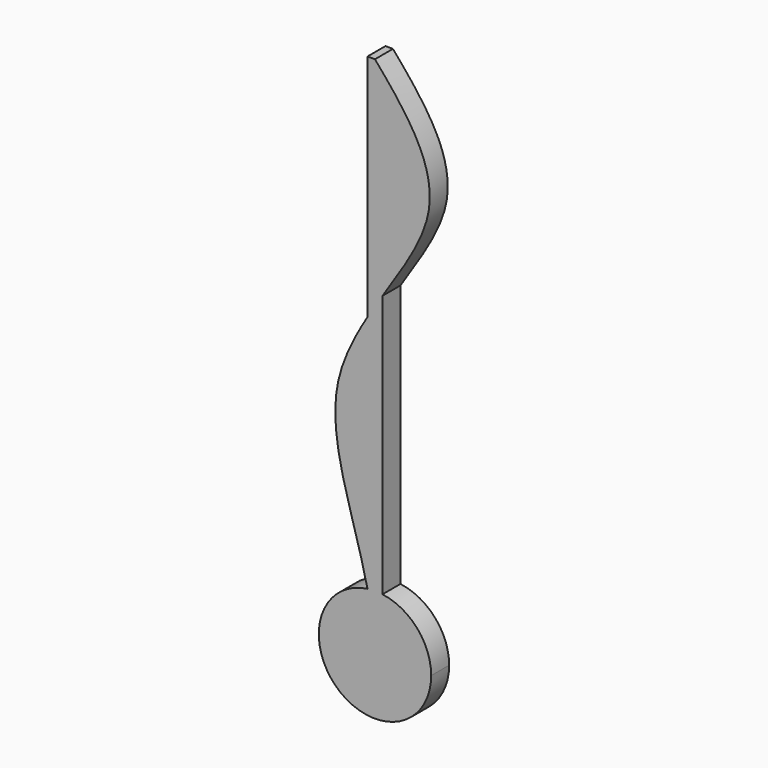
from build123d import *

# Parameters (mm, degrees)
F1_DEPTH = 3


with BuildPart() as f1:
    # F0 (on Front) → F1 (new body)
    with BuildSketch(Plane.XZ):
        with BuildLine():
            ThreePointArc((-1, 7.4330343737), (-4.9371044145, -5.6457948953), (7.5, 0))
            ThreePointArc((7.5, 0), (5.6457948953, 4.9371044145), (1, 7.4330343737))
            ThreePointArc((1, 7.4330343737), (0, 7.5), (-1, 7.4330343737))
        make_face()
        with BuildLine():
            ThreePointArc((-1, 7.4330343737), (0, 7.5), (1, 7.4330343737))
            Line((1, 7.4330343737), (1, 42.505793939))
            add(Edge.make_bspline(
                [(-1, 39.3632533519), (-0.3547541509, 40.4220734875), (0.3224407083, 41.4700968643), (1, 42.505793939)],
                knots=[0.4966271306, 0.4966271306, 0.4966271306, 0.4966271306, 0.5412536904, 0.5412536904, 0.5412536904, 0.5412536904], degree=3))
            add(Edge.make_bspline(
                [(-1, 7.4330343737), (-2.8397490445, 15.7134387246), (-7.9414373014, 26.3466179243), (-2.7938156098, 36.4196806195), (-1, 39.3632533519)],
                knots=[0.0837768261, 0.0837768261, 0.0837768261, 0.0837768261, 0.3725630707, 0.4966271306, 0.4966271306, 0.4966271306, 0.4966271306], degree=3))
        make_face()
        with BuildLine():
            add(Edge.make_bspline(
                [(-1, 39.3632533519), (-0.3547541509, 40.4220734875), (0.3224407083, 41.4700968643), (1, 42.505793939)],
                knots=[0.4966271306, 0.4966271306, 0.4966271306, 0.4966271306, 0.5412536904, 0.5412536904, 0.5412536904, 0.5412536904], degree=3))
            add(Edge.make_bspline(
                [(1, 42.505793939), (3.7315186673, 46.6811125098), (10.7117072602, 56.8169155659), (4.2752019951, 64.998584569), (0, 69.9849270426)],
                knots=[0.5412536904, 0.5412536904, 0.5412536904, 0.5412536904, 0.7211616081, 1, 1, 1, 1], degree=3))
            Line((0, 69.9849270426), (-1, 69.9849270426))
            Line((-1, 69.9849270426), (-1, 39.3632533519))
        make_face()
    extrude(amount=F1_DEPTH)


solid = f1.part
